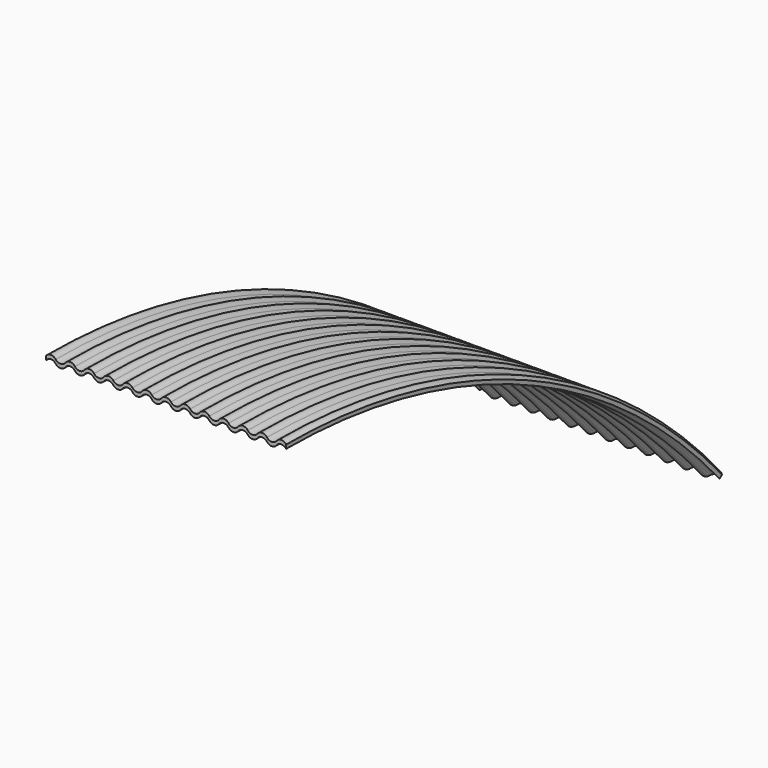
from build123d import *


with BuildPart() as f2:
    # F2: sweep along a path in F1
    with BuildLine(Plane.YZ) as f2_path:
        ThreePointArc((0, 0), (62.153439, -13.482785), (113.133525, -51.507332))
    # F0 (on Front) → F2 (sweep)
    with BuildSketch(Plane.XZ):
        with BuildLine():
            ThreePointArc((-21, -0.4), (-20, 0.1), (-19, -0.4))
            ThreePointArc((-19, -0.4), (-18, -0.9), (-17, -0.4))
            ThreePointArc((-17, -0.4), (-16, 0.1), (-15, -0.4))
            ThreePointArc((-15, -0.4), (-14, -0.9), (-13, -0.4))
            ThreePointArc((-13, -0.4), (-12, 0.1), (-11, -0.4))
            ThreePointArc((-11, -0.4), (-10, -0.9), (-9, -0.4))
            ThreePointArc((-9, -0.4), (-8, 0.1), (-7, -0.4))
            ThreePointArc((-7, -0.4), (-6, -0.9), (-5, -0.4))
            ThreePointArc((-5, -0.4), (-4, 0.1), (-3, -0.4))
            ThreePointArc((-3, -0.4), (-2, -0.9), (-1, -0.4))
            ThreePointArc((-1, -0.4), (0, 0.1), (1, -0.4))
            ThreePointArc((1, -0.4), (2, -0.9), (3, -0.4))
            ThreePointArc((3, -0.4), (4, 0.1), (5, -0.4))
            ThreePointArc((5, -0.4), (6, -0.9), (7, -0.4))
            ThreePointArc((7, -0.4), (8, 0.1), (9, -0.4))
            ThreePointArc((9, -0.4), (10, -0.9), (11, -0.4))
            ThreePointArc((11, -0.4), (12, 0.1), (13, -0.4))
            ThreePointArc((13, -0.4), (14, -0.9), (15, -0.4))
            ThreePointArc((15, -0.4), (16, 0.1), (17, -0.4))
            ThreePointArc((17, -0.4), (18, -0.9), (19, -0.4))
            ThreePointArc((19, -0.4), (20, 0.1), (21, -0.4))
            ThreePointArc((21, -0.4), (22, -0.9), (23, -0.4))
            ThreePointArc((23, -0.4), (24, 0.1), (25, -0.4))
            Line((25, -0.4), (25, 0.4))
            ThreePointArc((25, 0.4), (24, 0.9), (23, 0.4))
            ThreePointArc((23, 0.4), (22, -0.1), (21, 0.4))
            ThreePointArc((21, 0.4), (20, 0.9), (19, 0.4))
            ThreePointArc((19, 0.4), (18, -0.1), (17, 0.4))
            ThreePointArc((17, 0.4), (16, 0.9), (15, 0.4))
            ThreePointArc((15, 0.4), (14, -0.1), (13, 0.4))
            ThreePointArc((13, 0.4), (12, 0.9), (11, 0.4))
            ThreePointArc((11, 0.4), (10, -0.1), (9, 0.4))
            ThreePointArc((9, 0.4), (8, 0.9), (7, 0.4))
            ThreePointArc((7, 0.4), (6, -0.1), (5, 0.4))
            ThreePointArc((5, 0.4), (4, 0.9), (3, 0.4))
            ThreePointArc((3, 0.4), (2, -0.1), (1, 0.4))
            ThreePointArc((1, 0.4), (0, 0.9), (-1, 0.4))
            ThreePointArc((-1, 0.4), (-2, -0.1), (-3, 0.4))
            ThreePointArc((-3, 0.4), (-4, 0.9), (-5, 0.4))
            ThreePointArc((-5, 0.4), (-6, -0.1), (-7, 0.4))
            ThreePointArc((-7, 0.4), (-8, 0.9), (-9, 0.4))
            ThreePointArc((-9, 0.4), (-10, -0.1), (-11, 0.4))
            ThreePointArc((-11, 0.4), (-12, 0.9), (-13, 0.4))
            ThreePointArc((-13, 0.4), (-14, -0.1), (-15, 0.4))
            ThreePointArc((-15, 0.4), (-16, 0.9), (-17, 0.4))
            ThreePointArc((-17, 0.4), (-18, -0.1), (-19, 0.4))
            ThreePointArc((-19, 0.4), (-20, 0.9), (-21, 0.4))
            ThreePointArc((-21, 0.4), (-22, -0.1), (-23, 0.4))
            ThreePointArc((-23, 0.4), (-24, 0.9), (-25, 0.4))
            Line((-25, 0.4), (-25, -0.4))
            ThreePointArc((-25, -0.4), (-24, 0.1), (-23, -0.4))
            ThreePointArc((-23, -0.4), (-22, -0.9), (-21, -0.4))
        make_face()
    sweep(path=f2_path.line)


solid = f2.part
